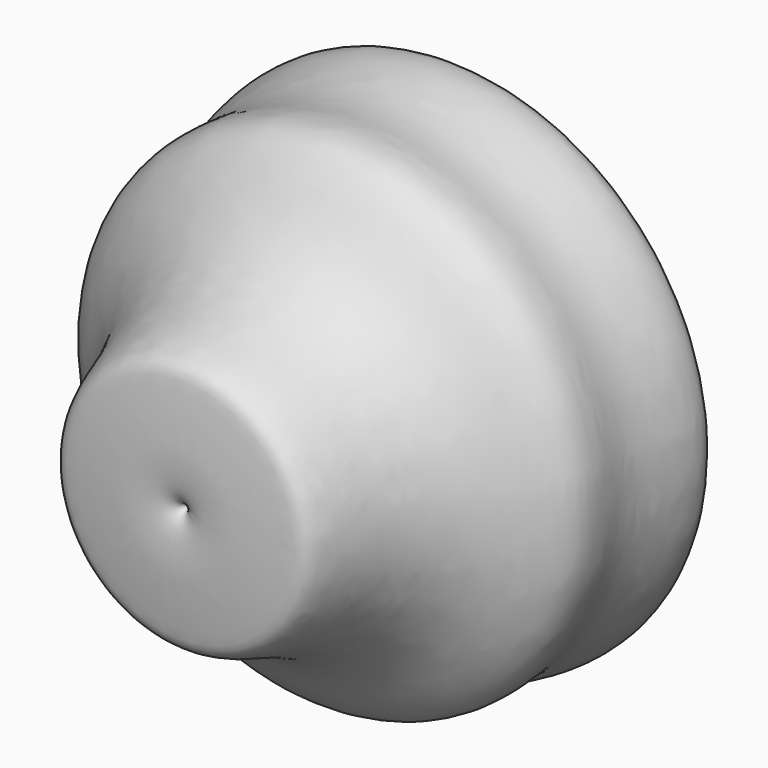
from build123d import *


with BuildPart() as f1:
    # F0 (on Top) → F1 (revolve)
    with BuildSketch(Plane.XY):
        with BuildLine():
            add(Edge.make_bspline(
                [(1.7554162769, -52.3853041232), (5.9884573903, -55.6415016637), (25.0891705801, -53.1595059657), (32.238527778, -52.5767409522), (36.1140336291, -35.672702543), (46.3023522567, -18.5672238112), (63.997017707, -9.3091298428), (62.0997915902, 4.1110175167), (62.0101045211, 13.2161418573), (68.2531070954, 31.9489186266), (54.0417145781, 33.5240734427), (54.0708804313, 19.5275055256), (52.6992503823, 5.5415230881), (53.8649250719, -7.8371597833), (38.9891751236, -11.3574542073), (25.4026822563, -30.9233232535), (30.1852764346, -50.896821944), (-0.6210196653, -42.2289860319), (-0.3602457776, -50.7578657417), (1.7554162769, -52.3853041232)],
                knots=[0, 0, 0, 0, 0.0755512107, 0.1168041661, 0.1781073798, 0.2503411697, 0.3171355766, 0.3697592542, 0.4205470498, 0.4842677263, 0.5280064188, 0.5813413898, 0.6435341398, 0.695865047, 0.7526790966, 0.8285326359, 0.8866750199, 0.9622397172, 1, 1, 1, 1], degree=3))
        make_face()
    revolve(axis=Axis((0, -0.2771690488, 0), (0, -1, 0)))


solid = f1.part
